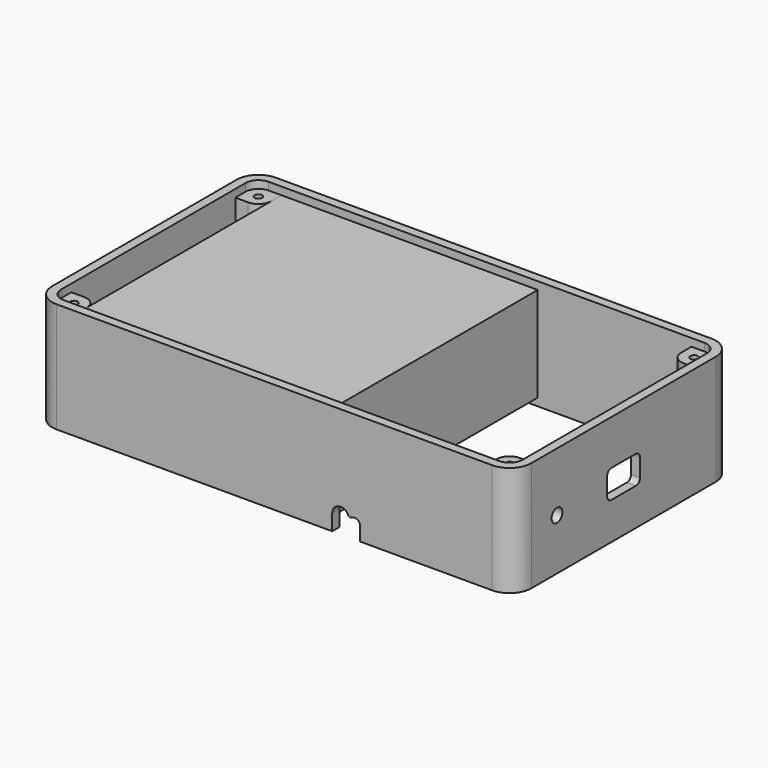
from build123d import *

# Parameters (mm, degrees)
F1_DEPTH  = 43
F3_R      = 1.45
F4_DEPTH  = 37
F5_R      = 2.625
F6_DEPTH  = 10
F7_W      = 100
F7_H      = 100
F8_DEPTH  = 37
F11_DEPTH = 25


with BuildPart() as f1:
    # F0 (on Top) → F1 (new body)
    with BuildSketch(Plane.XY):
        with BuildLine():
            Line((93.5, -45), (93.5, 45))
            ThreePointArc((93.5, 45), (91.010408, 51.010408), (85, 53.5))
            Line((85, 53.5), (-85, 53.5))
            ThreePointArc((-85, 53.5), (-91.010408, 51.010408), (-93.5, 45))
            Line((-93.5, 45), (-93.5, -45))
            ThreePointArc((-93.5, -45), (-91.010408, -51.010408), (-85, -53.5))
            Line((-85, -53.5), (85, -53.5))
            ThreePointArc((85, -53.5), (91.010408, -51.010408), (93.5, -45))
        make_face()
        with BuildLine():
            ThreePointArc((-90, 45), (-88.535534, 48.535534), (-85, 50))
            Line((-85, 50), (85, 50))
            ThreePointArc((85, 50), (88.535534, 48.535534), (90, 45))
            Line((90, 45), (90, -45))
            ThreePointArc((90, -45), (88.535534, -48.535534), (85, -50))
            Line((85, -50), (-85, -50))
            ThreePointArc((-85, -50), (-88.535534, -48.535534), (-90, -45))
            Line((-90, -45), (-90, 45))
        make_face(mode=Mode.SUBTRACT)
    extrude(amount=F1_DEPTH)

    # F3 (on offset) → F4 (join)
    with BuildSketch(Plane.XY.offset(3)):
        with BuildLine():
            Line((-80, 45), (-80, 50))
            Line((-80, 50), (-85, 50))
            ThreePointArc((-85, 50), (-88.535534, 48.535534), (-90, 45))
            Line((-90, 45), (-90, 40))
            Line((-90, 40), (-85, 40))
            ThreePointArc((-85, 40), (-81.464466, 41.464466), (-80, 45))
        make_face()
        with Locations((-85, 45)):
            Circle(F3_R, mode=Mode.SUBTRACT)
        with BuildLine():
            ThreePointArc((90, 45), (88.535534, 48.535534), (85, 50))
            Line((85, 50), (80, 50))
            Line((80, 50), (80, 45))
            ThreePointArc((80, 45), (81.464466, 41.464466), (85, 40))
            Line((85, 40), (90, 40))
            Line((90, 40), (90, 45))
        make_face()
        with Locations((85, 45)):
            Circle(F3_R, mode=Mode.SUBTRACT)
        with BuildLine():
            Line((80, -45), (80, -50))
            Line((80, -50), (85, -50))
            ThreePointArc((85, -50), (88.535534, -48.535534), (90, -45))
            Line((90, -45), (90, -40))
            Line((90, -40), (85, -40))
            ThreePointArc((85, -40), (81.464466, -41.464466), (80, -45))
        make_face()
        with Locations((85, -45)):
            Circle(F3_R, mode=Mode.SUBTRACT)
        with BuildLine():
            ThreePointArc((-80, -45), (-81.464466, -41.464466), (-85, -40))
            Line((-85, -40), (-90, -40))
            Line((-90, -40), (-90, -45))
            ThreePointArc((-90, -45), (-88.535534, -48.535534), (-85, -50))
            Line((-85, -50), (-80, -50))
            Line((-80, -50), (-80, -45))
        make_face()
        with Locations((-85, -45)):
            Circle(F3_R, mode=Mode.SUBTRACT)
    extrude(amount=F4_DEPTH)

    # F5 (on face) → F6 (cut)
    with BuildSketch(Plane.YZ.offset(93.5)):
        with BuildLine():
            Line((-6, 14.5), (6, 14.5))
            ThreePointArc((6, 14.5), (7.414214, 15.085786), (8, 16.5))
            Line((8, 16.5), (8, 23.5))
            ThreePointArc((8, 23.5), (7.414214, 24.914214), (6, 25.5))
            Line((6, 25.5), (-6, 25.5))
            ThreePointArc((-6, 25.5), (-7.414214, 24.914214), (-8, 23.5))
            Line((-8, 23.5), (-8, 16.5))
            ThreePointArc((-8, 16.5), (-7.414214, 15.085786), (-6, 14.5))
        make_face()
        with Locations((-32.5, 20)):
            Circle(F5_R)
    extrude(amount=-F6_DEPTH, mode=Mode.SUBTRACT)

    # F10 (on face) → F11 (cut)
    with BuildSketch(Plane.XZ.offset(53.5)):
        with BuildLine():
            ThreePointArc((30.157615, 7.217027), (29.369065, 7.138285), (28.770832, 7.658024))
            ThreePointArc((28.770832, 7.658024), (25.119615, 9.418775), (22.591673, 6.25))
            Line((22.591673, 6.25), (22.591673, 0))
            Line((22.591673, 0), (33.5, 0))
            Line((33.5, 0), (33.5, 5.25))
            ThreePointArc((33.5, 5.25), (32.391191, 7.189119), (30.157615, 7.217027))
        make_face()
    extrude(amount=-F11_DEPTH, mode=Mode.SUBTRACT)


with BuildPart() as f8:
    # F7 (on offset) → F8 (new body)
    with BuildSketch(Plane.XY.offset(3)):
        with Locations((-30, 0)):
            Rectangle(F7_W, F7_H)
    extrude(amount=F8_DEPTH)


solid = Compound([f1.part, f8.part])
